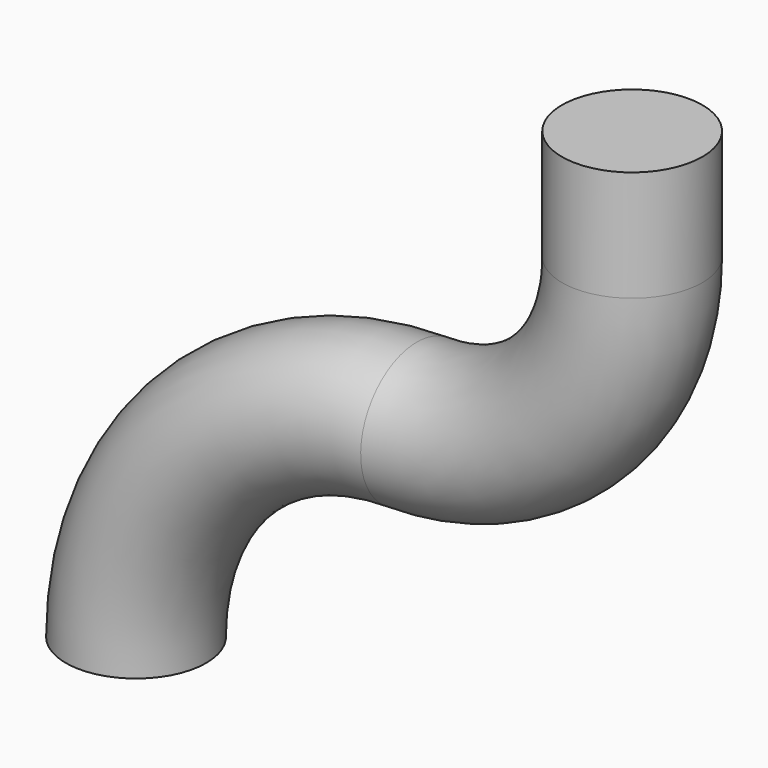
from build123d import *

# Parameters (mm, degrees)
F1_R = 1.5


with BuildPart() as f2:
    # F2: sweep along a path in F0
    with BuildLine(Plane.XZ) as f2_path:
        ThreePointArc((-6, 0), (-4.242641, 4.242641), (0, 6))
        ThreePointArc((0, 6), (3.252691, 7.347309), (4.6, 10.6))
        Line((4.6, 10.6), (4.6, 12.966178))
    # F1 (on Top) → F2 (sweep)
    with BuildSketch(Plane.XY):
        with Locations((-6, 0)):
            Circle(F1_R)
    sweep(path=f2_path.line)


solid = f2.part
